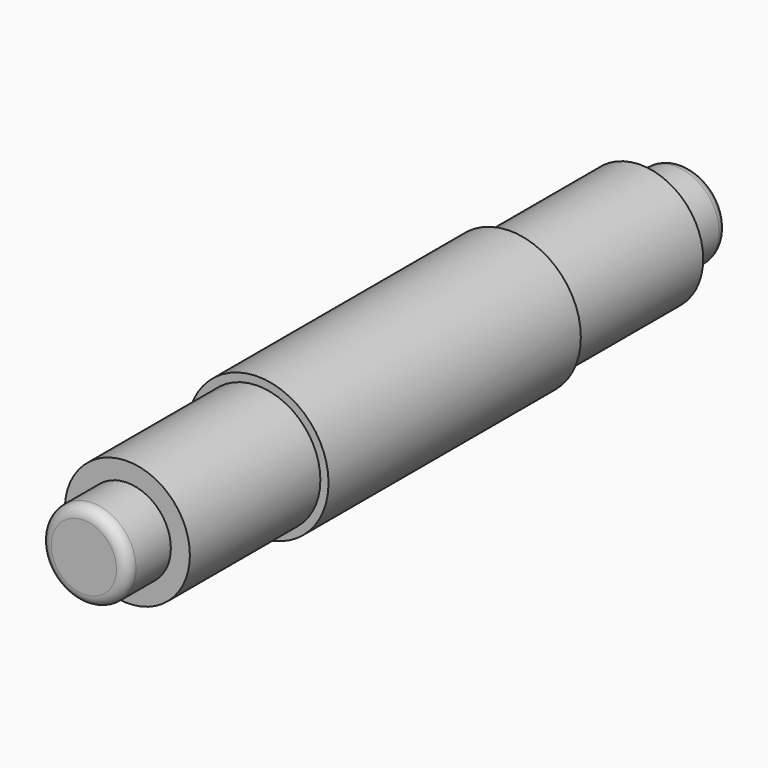
from build123d import *

# Parameters (mm, degrees)
F0_R     = 6.5
F1_DEPTH = 29
F2_R     = 5.75
F3_DEPTH = 15
F4_R     = 4
F5_DEPTH = 5
F6_R     = 5.75
F7_DEPTH = 15
F8_R     = 4
F9_DEPTH = 5
F10_R    = 1


with BuildPart() as f1:
    # F0 (on Front) → F1 (new body)
    with BuildSketch(Plane.XZ):
        Circle(F0_R)
    extrude(amount=F1_DEPTH)

    # F2 (on Front) → F3 (join)
    with BuildSketch(Plane.XZ):
        Circle(F2_R)
    extrude(amount=-F3_DEPTH)



with BuildPart() as f5:
    # F4 (on face) → F5 (new body)
    with BuildSketch(Plane.XZ.offset(44)):
        Circle(F4_R)
    extrude(amount=F5_DEPTH)


with BuildPart() as f1_1:
    add(f1.part)

    add(f5.part)  # F7 merges F5
    # F6 (on face) → F7 (join)
    with BuildSketch(Plane.XZ.offset(29)):
        Circle(F6_R)
    extrude(amount=F7_DEPTH)

    # F8 (on face) → F9 (join)
    with BuildSketch(Plane(origin=(0, 15, 0), x_dir=(-1, 0, 0), z_dir=(0, 1, 0))):
        Circle(F8_R)
    extrude(amount=F9_DEPTH)

    # F10
    f10_edges = [f1_1.edges().sort_by_distance(p)[0] for p in [
        (4, 20, 0),
        (-4, -49, 0),
    ]]
    fillet(f10_edges, radius=F10_R)


solid = f1_1.part
